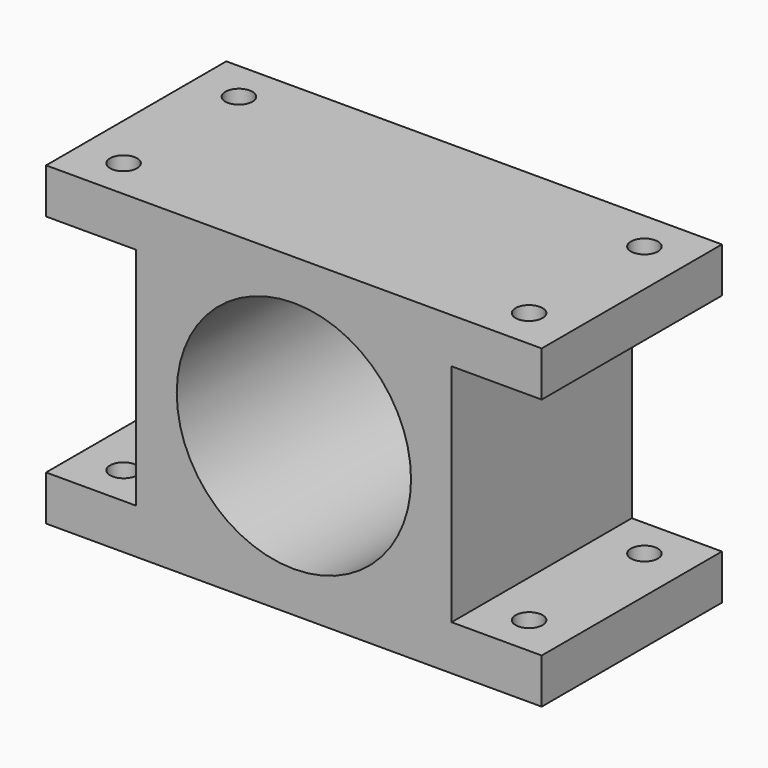
from build123d import *

# Parameters (mm, degrees)
F0_R     = 13
F0_W     = 10
F0_H     = 5
F1_DEPTH = 12.5
F2_R     = 1.5
F3_DEPTH = 45.1


with BuildPart() as f1:
    # F0 (on Front) → F1 (new body, symmetric)
    with BuildSketch(Plane.XZ):
        Polygon((-17.5, -17.5), (17.5, -17.5), (17.5, -12.5), (17.5, 12.5), (17.5, 17.5), (-17.5, 17.5), (-17.5, 12.5), (-17.5, -12.5), align=None)
        Circle(F0_R, mode=Mode.SUBTRACT)
        with Locations((22.5, -15)):
            Rectangle(F0_W, F0_H)
        with Locations((-22.5, -15)):
            Rectangle(F0_W, F0_H)
        with Locations((22.5, 15)):
            Rectangle(F0_W, F0_H)
        with Locations((-22.5, 15)):
            Rectangle(F0_W, F0_H)
    extrude(amount=F1_DEPTH, both=True)

    # F2 (on face) → F3 (cut)
    with BuildSketch(Plane.XY.offset(17.5)):
        with Locations((-22.5, -8)):
            Circle(F2_R)
        with Locations((-22.5, 8)):
            Circle(F2_R)
        with Locations((22.5, 8)):
            Circle(F2_R)
        with Locations((22.5, -8)):
            Circle(F2_R)
    extrude(amount=-F3_DEPTH, mode=Mode.SUBTRACT)


solid = f1.part
